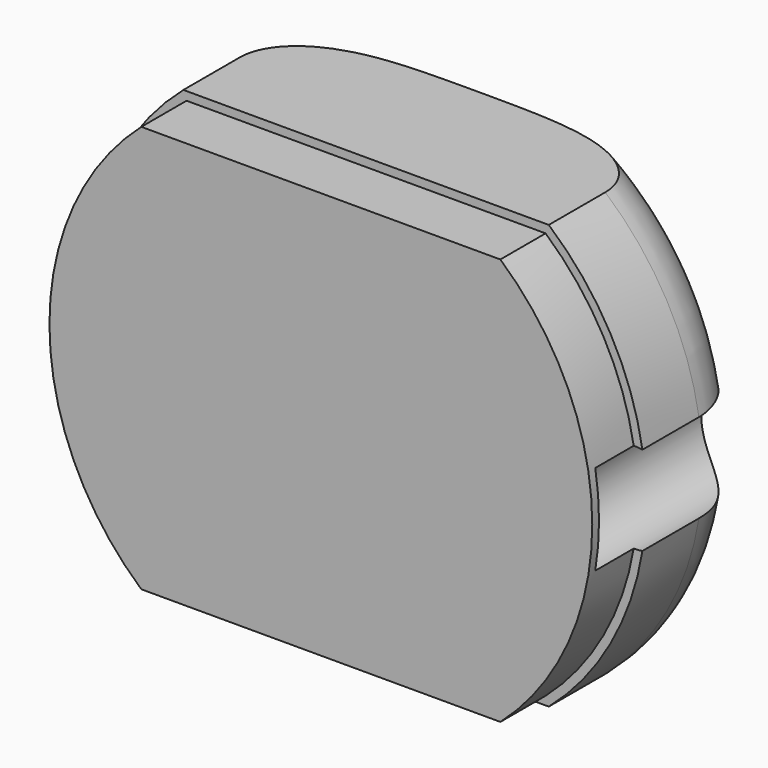
from build123d import *

# Parameters (mm, degrees)
PAD037_DEPTH    = 2
PAD043_DEPTH    = 5
PAD018_DEPTH    = 2
SKETCH069_R     = 1.6
POCKET020_DEPTH = 6.7
SKETCH071_W     = 7.4
SKETCH071_H     = 2
PAD045_DEPTH    = 1.5


with BuildPart() as part:
    # Sketch051 → Pad037 (new body)
    with BuildSketch(Plane.XZ.offset(-17.8)):
        with BuildLine():
            ThreePointArc((-6.3498031466, 7.2), (-9.6, 0), (-6.3498031466, -7.2))
            Line((-6.3498031466, -7.2), (6.3498031466, -7.2))
            ThreePointArc((6.3498031466, -7.2), (9.6, 0), (6.3498031466, 7.2))
            Line((-6.3498031466, 7.2), (6.3498031466, 7.2))
        make_face()
    extrude(amount=-PAD037_DEPTH)

    # Sketch067 (on Face6 of Pad037) → Pad043 (join)
    with BuildSketch(Plane(origin=(0, 19.8, 0), x_dir=(1, 0, 0), z_dir=(0, 1, 0))):
        with BuildLine():
            ThreePointArc((-6.4621977686, 7.5), (-9.9, 0), (-6.4621977686, -7.5))
            Line((-6.4621977686, -7.5), (6.4621977686, -7.5))
            ThreePointArc((6.4621977686, -7.5), (9.9, 0), (6.4621977686, 7.5))
            Line((-6.4621977686, 7.5), (6.4621977686, 7.5))
        make_face()
    extrude(amount=PAD043_DEPTH)

    # Sketch068 (on Face5 of Pad043) → Pad018 (join)
    with BuildSketch(Plane(origin=(0, 24.8, 0), x_dir=(1, 0, 0), z_dir=(0, 1, 0))):
        with BuildLine():
            ThreePointArc((-3, 4), (0, -5), (3, 4))
            Line((-3, 4), (3, 4))
        make_face()
    extrude(amount=PAD018_DEPTH)

    # Sketch069 (on Face5 of Pad018) → Pocket020 (cut)
    with BuildSketch(Plane(origin=(0, 24.8, 0), x_dir=(1, 0, 0), z_dir=(0, 1, 0))):
        with Locations((-9.5, 0)):
            Circle(SKETCH069_R)
        with Locations((9.5, 0)):
            Circle(SKETCH069_R)
    extrude(amount=-POCKET020_DEPTH, mode=Mode.SUBTRACT)

    # Sketch071 (on Face4 of Pocket020) → Pad045 (join)
    with BuildSketch(Plane(origin=(0, 0, -7.5), x_dir=(1, 0, 0), z_dir=(0, 0, -1))):
        with Locations((0, -23.8)):
            Rectangle(SKETCH071_W, SKETCH071_H)
    extrude(amount=PAD045_DEPTH)

    # Sketch072 → Groove (revolve, cut)
    with BuildSketch(Plane.XY):
        with BuildLine():
            ThreePointArc((-7.4, 24.8), (-9.167766953, 24.067766953), (-9.9, 22.3))
            Line((-9.9, 24.8), (-9.9, 22.3))
            Line((-9.9, 24.8), (-7.4, 24.8))
        make_face()
    revolve(axis=Axis((0, 0, 0), (0, 1, 0)), mode=Mode.SUBTRACT)


with BuildPart() as part_1:
    # Body023 placement: moved
    add(part.part.moved(Location((0, 25.7, 0))))


solid = part_1.part
